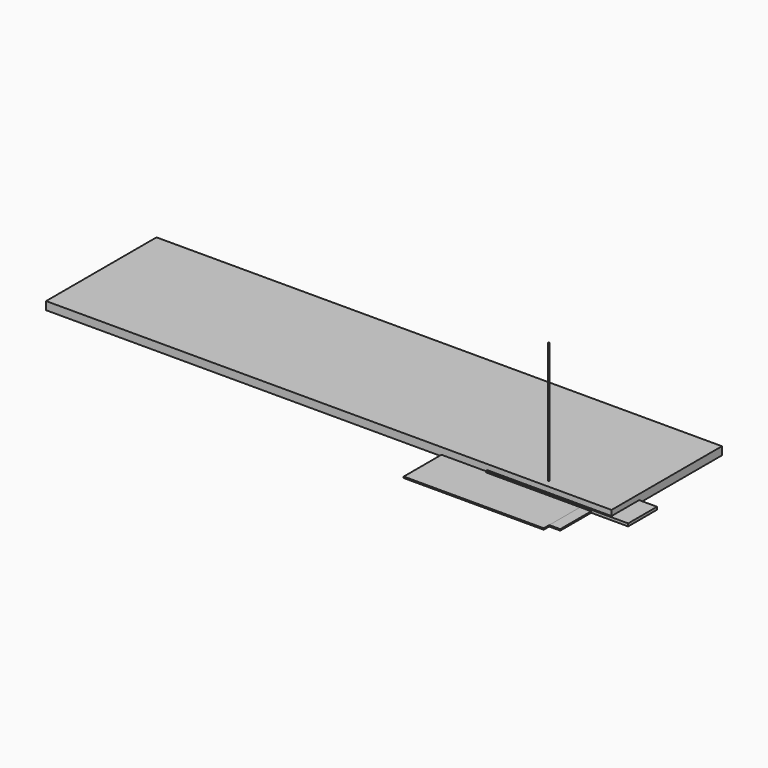
from build123d import *

# Parameters (mm, degrees)
F0_W      = 2489.2
F0_H      = 650.875
F1_DEPTH  = 38.1
F2_W      = 431.8
F2_H      = 63.5
F3_DEPTH  = 12.7
F4_W      = 492.76
F4_H      = 170.18
F5_DEPTH  = 12.7
F6_W      = 584.2
F6_H      = 444.5
F7_DEPTH  = 6.35
F8_W      = 660.4
F8_H      = 444.5
F9_DEPTH  = 6.35
F10_R     = 3.175
F11_DEPTH = 609.6
F12_DEPTH = 177.8
F13_DEPTH = 177.8
F14_DEPTH = 177.8
F15_DEPTH = 177.8
F16_DEPTH = 177.8


with BuildPart() as f1:
    # F0 (on Top) → F1 (new body)
    with BuildSketch(Plane.XY):
        with Locations((-1162.7904420257, 286.5318235457)):
            Rectangle(F0_W, F0_H)
    extrude(amount=F1_DEPTH)

    # F16 (add): a face of the model
    f16_faces = [f1.faces().sort_by_distance(p)[0] for p in [
        (81.8095579743, 286.5318235457, 19.05),
    ]]
    extrude(f16_faces, amount=F16_DEPTH)


with BuildPart() as f3:
    # F2 (on Top) → F3 (new body)
    with BuildSketch(Plane.XY):
        with Locations((-115.2146345019, 16.6498486996)):
            Rectangle(F2_W, F2_H)
    extrude(amount=F3_DEPTH)

    # F15 (add): a face of the model
    f15_faces = [f3.faces().sort_by_distance(p)[0] for p in [
        (100.6853654981, 16.6498486996, 6.35),
    ]]
    extrude(f15_faces, amount=F15_DEPTH)


with BuildPart() as f5:
    # F4 (on Top) → F5 (new body)
    with BuildSketch(Plane.XY):
        with Locations((-80.1701629591, 38.6617330873)):
            Rectangle(F4_W, F4_H)
    extrude(amount=F5_DEPTH)

    # F14 (add): a face of the model
    f14_faces = [f5.faces().sort_by_distance(p)[0] for p in [
        (166.2098370409, 38.6617330873, 6.35),
    ]]
    extrude(f14_faces, amount=F14_DEPTH)


with BuildPart() as f7:
    # F6 (on Top) → F7 (new body)
    with BuildSketch(Plane.XY):
        with Locations((-122.3678465843, 171.1233187318)):
            Rectangle(F6_W, F6_H)
    extrude(amount=F7_DEPTH)

    # F13 (add): a face of the model
    f13_faces = [f7.faces().sort_by_distance(p)[0] for p in [
        (-122.3678465843, -51.1266812682, 3.175),
    ]]
    extrude(f13_faces, amount=F13_DEPTH)


with BuildPart() as f9:
    # F8 (on Top) → F9 (new body)
    with BuildSketch(Plane.XY):
        with Locations((-212.3867182851, 138.7516189218)):
            Rectangle(F8_W, F8_H)
    extrude(amount=F9_DEPTH)

    # F12 (add): a face of the model
    f12_faces = [f9.faces().sort_by_distance(p)[0] for p in [
        (-212.3867182851, -83.4983810782, 3.175),
    ]]
    extrude(f12_faces, amount=F12_DEPTH)


with BuildPart() as f11:
    # F10 (on Top) → F11 (new body)
    with BuildSketch(Plane.XY):
        with Locations((-66.9894292951, -0.838244101)):
            Circle(F10_R)
    extrude(amount=F11_DEPTH)


solid = Compound([f1.part, f3.part, f5.part, f7.part, f9.part, f11.part])
